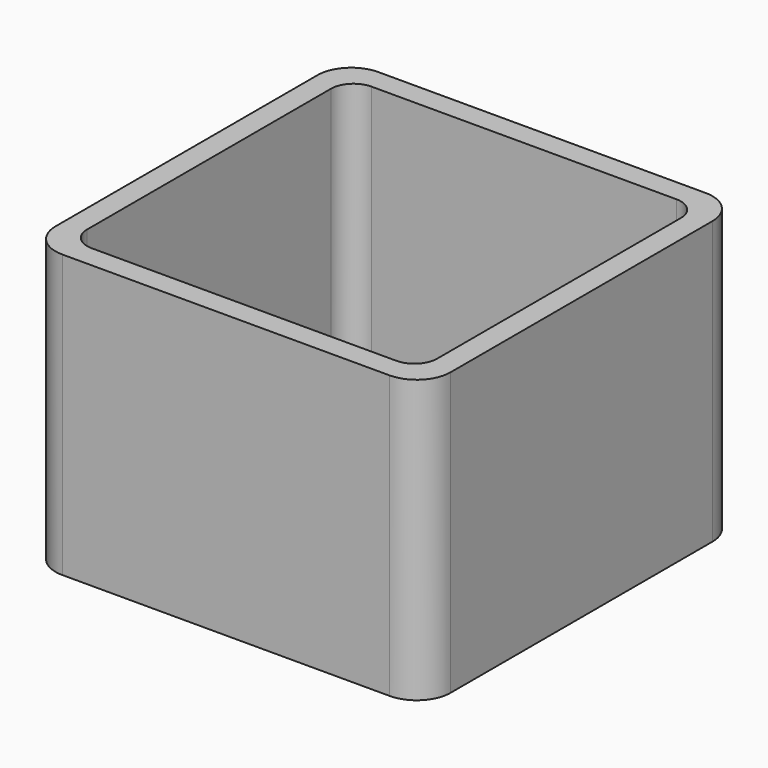
from build123d import *

# Parameters (mm, degrees)
EXTRUDE_DEPTH = 50


with BuildPart() as part:
    # Sketch → Extrude (new body)
    with BuildSketch(Plane.XY):
        with BuildLine():
            Line((-29, 35), (29, 35))
            ThreePointArc((35, 29), (33.242641, 33.242641), (29, 35))
            Line((35, 29), (35, -29))
            ThreePointArc((29, -35), (33.242641, -33.242641), (35, -29))
            Line((29, -35), (-29, -35))
            ThreePointArc((-35, -29), (-33.242641, -33.242641), (-29, -35))
            Line((-35, -29), (-35, 29))
            ThreePointArc((-29, 35), (-33.242641, 33.242641), (-35, 29))
        make_face()
        with BuildLine():
            Line((-27, 31), (27, 31))
            ThreePointArc((31, 27), (29.828427, 29.828427), (27, 31))
            Line((31, 27), (31, -27))
            ThreePointArc((27, -31), (29.828427, -29.828427), (31, -27))
            Line((27, -31), (-27, -31))
            ThreePointArc((-31, -27), (-29.828427, -29.828427), (-27, -31))
            Line((-31, -27), (-31, 27))
            ThreePointArc((-27, 31), (-29.828427, 29.828427), (-31, 27))
        make_face(mode=Mode.SUBTRACT)
    extrude(amount=EXTRUDE_DEPTH)


solid = part.part
